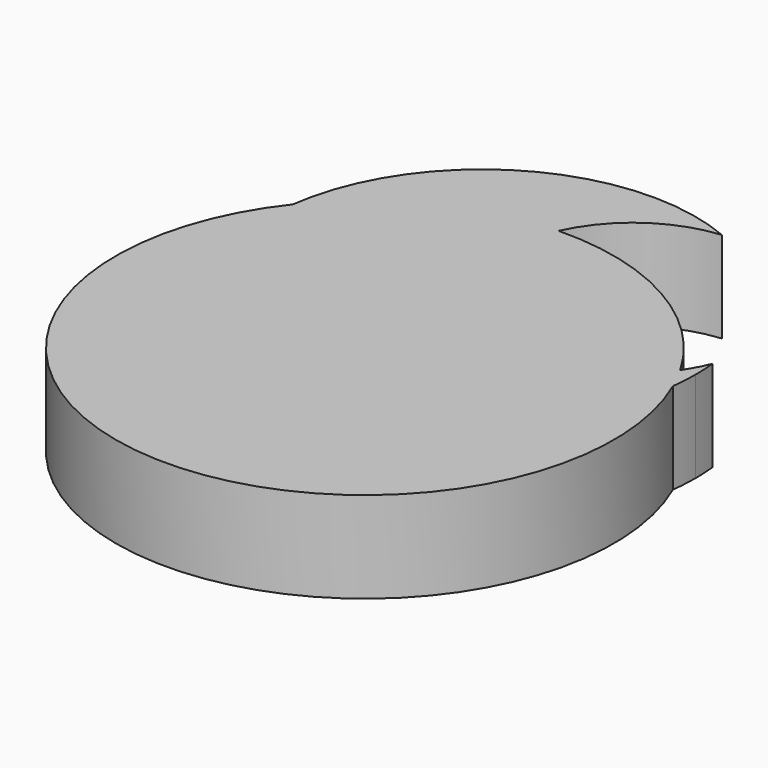
from build123d import *

# Parameters (mm, degrees)
F0_R     = 43.006636
F1_DEPTH = 15.748
F3_DEPTH = 15.748


with BuildPart() as f1:
    # F0 (on Top) → F1 (new body)
    with BuildSketch(Plane.XY):
        Circle(F0_R)
    extrude(amount=F1_DEPTH)

    # F2 (on Top) → F3 (join)
    with BuildSketch(Plane.XY):
        with BuildLine():
            ThreePointArc((16.991911, 55.828264), (-27.869411, 1.318663), (39.696469, 21.7805))
            ThreePointArc((39.696469, 21.7805), (39.64573, 23.714413), (39.493655, 25.643006))
            ThreePointArc((39.493655, 25.643006), (1.474586, 20.781156), (16.991911, 55.828264))
        make_face()
    extrude(amount=F3_DEPTH)


solid = f1.part
